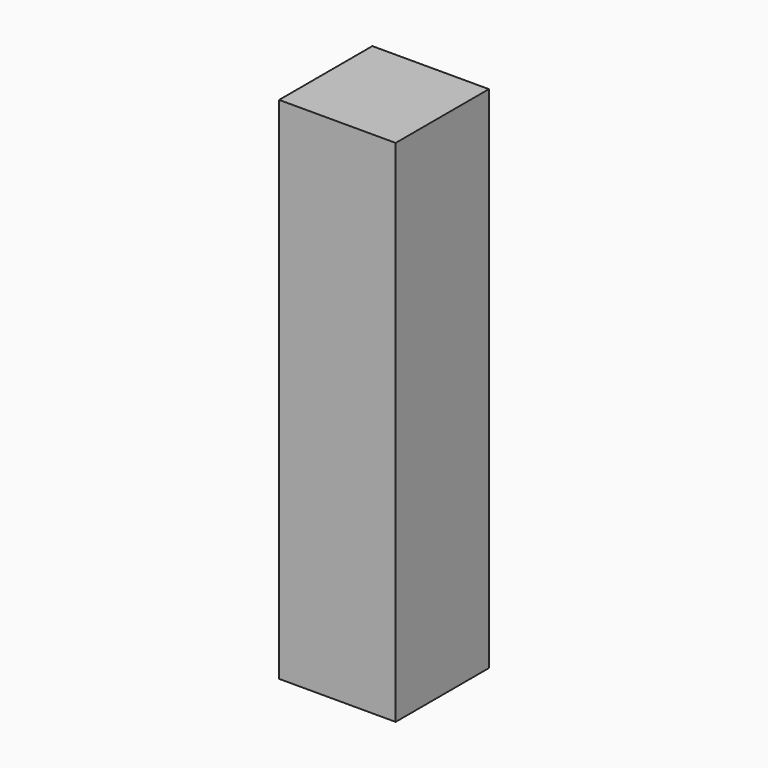
from build123d import *

# Parameters (mm, degrees)
BOX_W     = 914.4
BOX_H     = 914.4
BOX_DEPTH = 4000


with BuildPart() as part:
    # Box → Box (new body)
    with BuildSketch(Plane.XY):
        with Locations((457.2, 457.2)):
            Rectangle(BOX_W, BOX_H)
    extrude(amount=BOX_DEPTH)


solid = part.part
